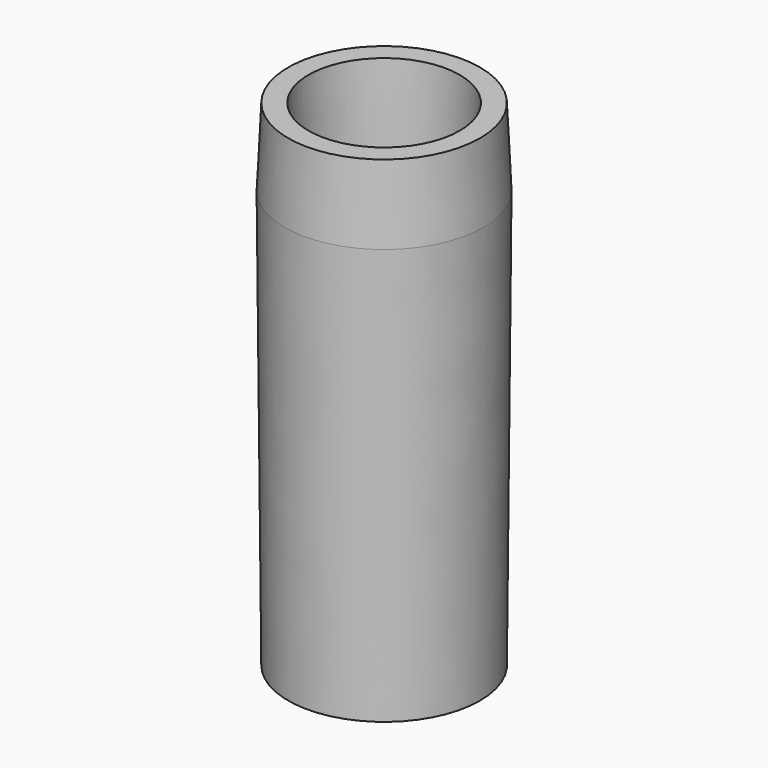
from build123d import *

# Parameters (mm, degrees)
F3_DEPTH = 34.29


with BuildPart() as f1:
    # F0 (on Front) → F1 (revolve)
    with BuildSketch(Plane.XZ):
        Polygon((7.874, 20.32), (6.20684, 20.32), (6.096, 13.97), (6.858, -20.32), (7.874, -20.32), (8.173244, 13.97), align=None)
    revolve(axis=Axis((0, 0, 1.098175), (0, 0, -1)))

    # F2 (on face) → F3 (join)
    with BuildSketch(Plane(origin=(0, 0, -20.32), x_dir=(1, 0, 0), z_dir=(0, 0, -1))):
        with BuildLine():
            Line((1.251042, 2.595763), (-5.939202, 3.429))
            ThreePointArc((-5.939202, 3.429), (-6.12053, 3.093749), (-6.282952, 2.748941))
            Line((-6.282952, 2.748941), (1.2065, 2.089719))
            Line((1.2065, 2.089719), (1.251042, 2.595763))
        make_face()
        with BuildLine():
            ThreePointArc((0, -6.858), (0.381, -6.847408), (0.760823, -6.815667))
            Line((0.760823, -6.815667), (-2.413, 0))
            Line((-2.413, 0), (-2.873518, -0.214447))
            Line((-2.873518, -0.214447), (0, -6.858))
        make_face()
        with BuildLine():
            Line((1.622476, -2.381316), (5.939202, 3.429))
            ThreePointArc((5.939202, 3.429), (5.73953, 3.75366), (5.522129, 4.066726))
            Line((5.522129, 4.066726), (1.2065, -2.089719))
            Line((1.2065, -2.089719), (1.622476, -2.381316))
        make_face()
    extrude(amount=-F3_DEPTH)

    # F4 (on Front) → F5 (revolve, cut)
    with BuildSketch(Plane.XZ):
        Polygon((0, 7.874), (6.096, 13.97), (0, 13.97), align=None)
        Polygon((6.858, -20.32), (6.716924, -13.971567), (0, -7.254644), (0, -20.4724), align=None)
    revolve(axis=Axis((0, 0, 1.098175), (0, 0, -1)), mode=Mode.SUBTRACT)


solid = f1.part
